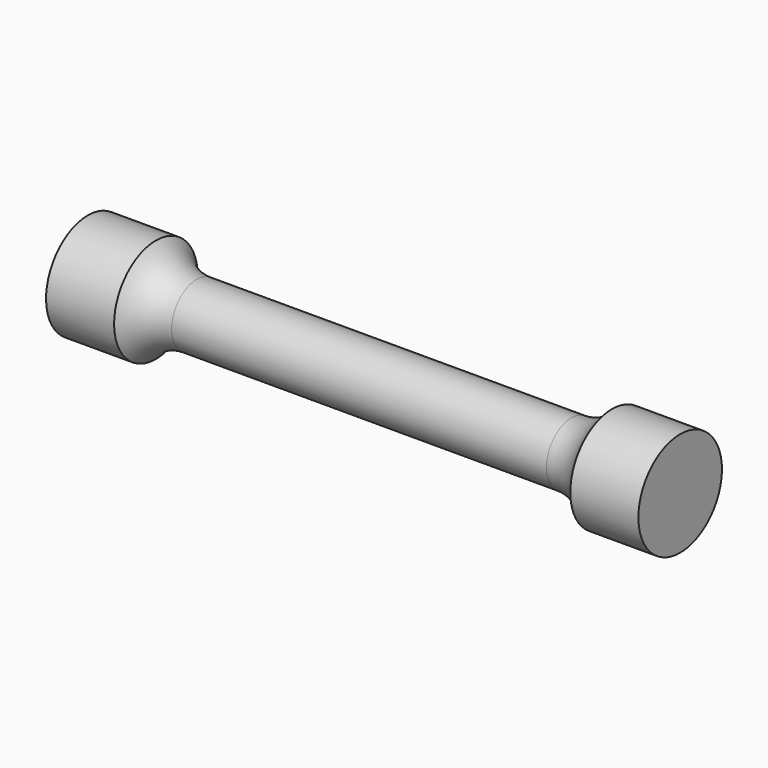
from build123d import *


with BuildPart() as f1:
    # F0 (on Front) → F1 (revolve)
    with BuildSketch(Plane.XZ):
        with BuildLine():
            Line((37.5, 6.25), (0, 6.25))
            Line((0, 6.25), (-37.5, 6.25))
            ThreePointArc((-37.5, 6.25), (-42.082891, 7.361968), (-45.646576, 10.450578))
            Line((-45.646576, 10.450578), (-59.267242, 10.450578))
            Line((-59.267242, 10.450578), (-59.267242, 0))
            Line((-59.267242, 0), (0, 0))
            Line((0, 0), (59.267242, 0))
            Line((59.267242, 0), (59.267242, 10.450578))
            Line((59.267242, 10.450578), (45.646576, 10.450578))
            ThreePointArc((45.646576, 10.450578), (42.082891, 7.361968), (37.5, 6.25))
        make_face()
    revolve(axis=Axis((-29.633621, 0, 0), (1, 0, 0)))


solid = f1.part
